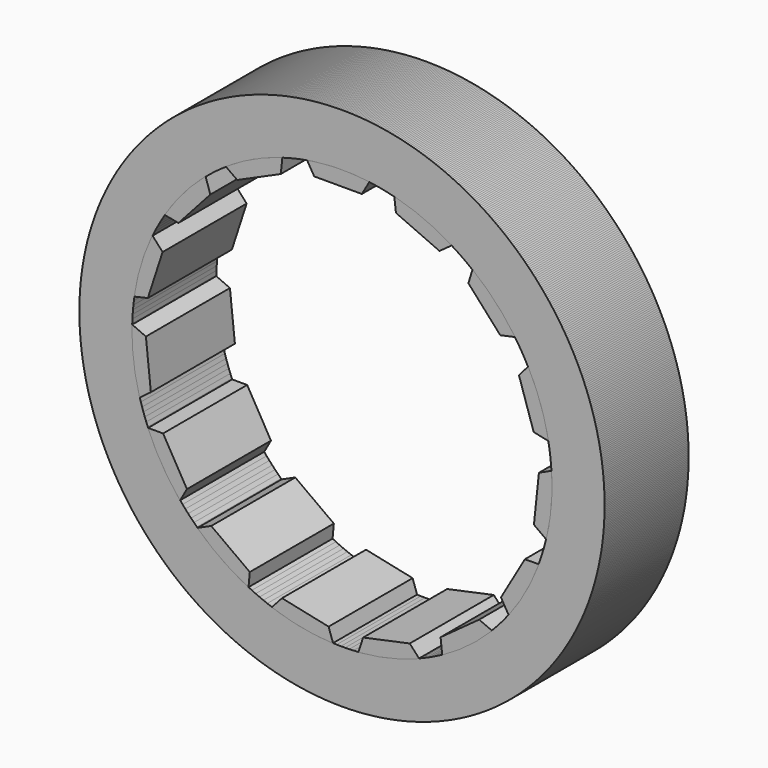
from build123d import *

# Parameters (mm, degrees)
F0_R     = 63.496314
F0_R_2   = 50.8
F1_DEPTH = 25.4
F3_DEPTH = 25.4
F4_COUNT = 15


with BuildPart() as f1:
    # F0 (on Front) → F1 (new body)
    with BuildSketch(Plane.XZ):
        Circle(F0_R)
        Circle(F0_R_2, mode=Mode.SUBTRACT)
    extrude(amount=F1_DEPTH)


with BuildPart() as f3:
    # F2 (on face) → F3 (new body)
    with BuildSketch(Plane(origin=(0, 0, 0), x_dir=(-1, 0, 0), z_dir=(0, 1, 0))):
        with BuildLine():
            ThreePointArc((8.456073, 50.091265), (0.917296, 50.791718), (-6.641856, 50.363933))
            Line((-6.641856, 50.363933), (-4.802425, 47.171272))
            Line((-4.802425, 47.171272), (6.71939, 47.171272))
            Line((6.71939, 47.171272), (8.456073, 50.091265))
        make_face()
    extrude(amount=-F3_DEPTH)


with BuildPart() as f4_1:
    # F4: instance of F1
    add(f1.part.rotate(Axis((0, 0, 0), (0, 1, 0)), 1 * 360 / F4_COUNT))


with BuildPart() as f4_2:
    # F4: instance of F1
    add(f1.part.rotate(Axis((0, 0, 0), (0, 1, 0)), 2 * 360 / F4_COUNT))


with BuildPart() as f4_3:
    # F4: instance of F1
    add(f1.part.rotate(Axis((0, 0, 0), (0, 1, 0)), 3 * 360 / F4_COUNT))


with BuildPart() as f4_4:
    # F4: instance of F1
    add(f1.part.rotate(Axis((0, 0, 0), (0, 1, 0)), 4 * 360 / F4_COUNT))


with BuildPart() as f4_5:
    # F4: instance of F1
    add(f1.part.rotate(Axis((0, 0, 0), (0, 1, 0)), 5 * 360 / F4_COUNT))


with BuildPart() as f4_6:
    # F4: instance of F1
    add(f1.part.rotate(Axis((0, 0, 0), (0, 1, 0)), 6 * 360 / F4_COUNT))


with BuildPart() as f4_7:
    # F4: instance of F1
    add(f1.part.rotate(Axis((0, 0, 0), (0, 1, 0)), 7 * 360 / F4_COUNT))


with BuildPart() as f4_8:
    # F4: instance of F1
    add(f1.part.rotate(Axis((0, 0, 0), (0, 1, 0)), 8 * 360 / F4_COUNT))


with BuildPart() as f4_9:
    # F4: instance of F1
    add(f1.part.rotate(Axis((0, 0, 0), (0, 1, 0)), 9 * 360 / F4_COUNT))


with BuildPart() as f4_10:
    # F4: instance of F1
    add(f1.part.rotate(Axis((0, 0, 0), (0, 1, 0)), 10 * 360 / F4_COUNT))


with BuildPart() as f4_11:
    # F4: instance of F1
    add(f1.part.rotate(Axis((0, 0, 0), (0, 1, 0)), 11 * 360 / F4_COUNT))


with BuildPart() as f4_12:
    # F4: instance of F1
    add(f1.part.rotate(Axis((0, 0, 0), (0, 1, 0)), 12 * 360 / F4_COUNT))


with BuildPart() as f4_13:
    # F4: instance of F1
    add(f1.part.rotate(Axis((0, 0, 0), (0, 1, 0)), 13 * 360 / F4_COUNT))


with BuildPart() as f4_14:
    # F4: instance of F1
    add(f1.part.rotate(Axis((0, 0, 0), (0, 1, 0)), 14 * 360 / F4_COUNT))


with BuildPart() as f4_15:
    # F4: instance of F3
    add(f3.part.rotate(Axis((0, 0, 0), (0, 1, 0)), 1 * 360 / F4_COUNT))


with BuildPart() as f4_16:
    # F4: instance of F3
    add(f3.part.rotate(Axis((0, 0, 0), (0, 1, 0)), 2 * 360 / F4_COUNT))


with BuildPart() as f4_17:
    # F4: instance of F3
    add(f3.part.rotate(Axis((0, 0, 0), (0, 1, 0)), 3 * 360 / F4_COUNT))


with BuildPart() as f4_18:
    # F4: instance of F3
    add(f3.part.rotate(Axis((0, 0, 0), (0, 1, 0)), 4 * 360 / F4_COUNT))


with BuildPart() as f4_19:
    # F4: instance of F3
    add(f3.part.rotate(Axis((0, 0, 0), (0, 1, 0)), 5 * 360 / F4_COUNT))


with BuildPart() as f4_20:
    # F4: instance of F3
    add(f3.part.rotate(Axis((0, 0, 0), (0, 1, 0)), 6 * 360 / F4_COUNT))


with BuildPart() as f4_21:
    # F4: instance of F3
    add(f3.part.rotate(Axis((0, 0, 0), (0, 1, 0)), 7 * 360 / F4_COUNT))


with BuildPart() as f4_22:
    # F4: instance of F3
    add(f3.part.rotate(Axis((0, 0, 0), (0, 1, 0)), 8 * 360 / F4_COUNT))


with BuildPart() as f4_23:
    # F4: instance of F3
    add(f3.part.rotate(Axis((0, 0, 0), (0, 1, 0)), 9 * 360 / F4_COUNT))


with BuildPart() as f4_24:
    # F4: instance of F3
    add(f3.part.rotate(Axis((0, 0, 0), (0, 1, 0)), 10 * 360 / F4_COUNT))


with BuildPart() as f4_25:
    # F4: instance of F3
    add(f3.part.rotate(Axis((0, 0, 0), (0, 1, 0)), 11 * 360 / F4_COUNT))


with BuildPart() as f4_26:
    # F4: instance of F3
    add(f3.part.rotate(Axis((0, 0, 0), (0, 1, 0)), 12 * 360 / F4_COUNT))


with BuildPart() as f4_27:
    # F4: instance of F3
    add(f3.part.rotate(Axis((0, 0, 0), (0, 1, 0)), 13 * 360 / F4_COUNT))


with BuildPart() as f4_28:
    # F4: instance of F3
    add(f3.part.rotate(Axis((0, 0, 0), (0, 1, 0)), 14 * 360 / F4_COUNT))


solid = Compound([f1.part, f3.part, f4_1.part, f4_2.part, f4_3.part, f4_4.part, f4_5.part, f4_6.part, f4_7.part, f4_8.part, f4_9.part, f4_10.part, f4_11.part, f4_12.part, f4_13.part, f4_14.part, f4_15.part, f4_16.part, f4_17.part, f4_18.part, f4_19.part, f4_20.part, f4_21.part, f4_22.part, f4_23.part, f4_24.part, f4_25.part, f4_26.part, f4_27.part, f4_28.part])
